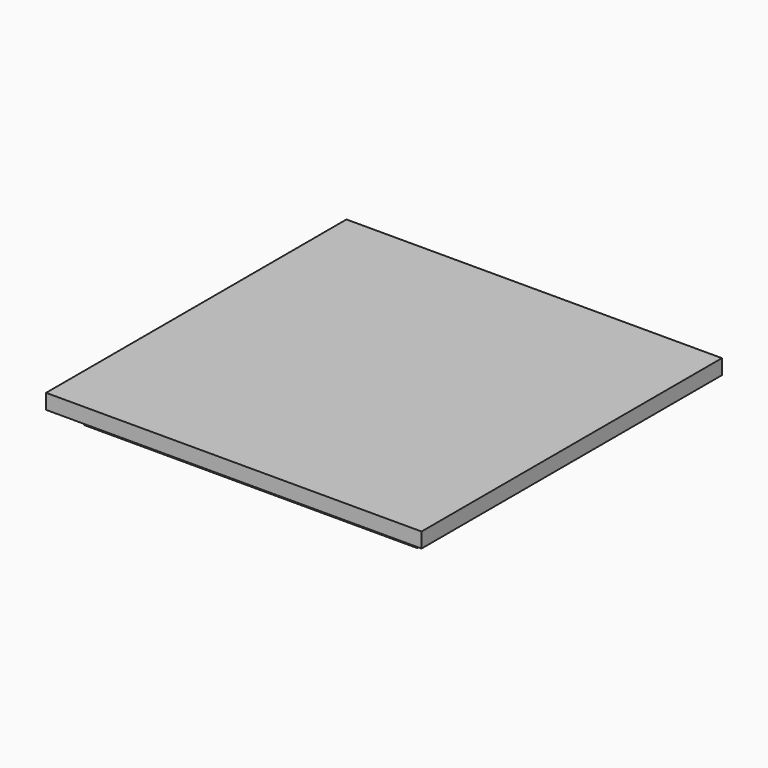
from build123d import *

# Parameters (mm, degrees)
F0_W     = 50
F0_H     = 50
F0_W_2   = 44.4
F0_H_2   = 44.4
F1_DEPTH = 2
F2_DEPTH = 2


with BuildPart() as f1:
    # F0 (on Top) → F1 (new body)
    with BuildSketch(Plane.XY):
        Rectangle(F0_W, F0_H)
        Rectangle(F0_W_2, F0_H_2, mode=Mode.SUBTRACT)
        Rectangle(F0_W_2, F0_H_2)
    extrude(amount=F1_DEPTH)

    # F0 (on Top) → F2 (join)
    with BuildSketch(Plane.XY):
        Rectangle(F0_W_2, F0_H_2)
    extrude(amount=-F2_DEPTH)


solid = f1.part
